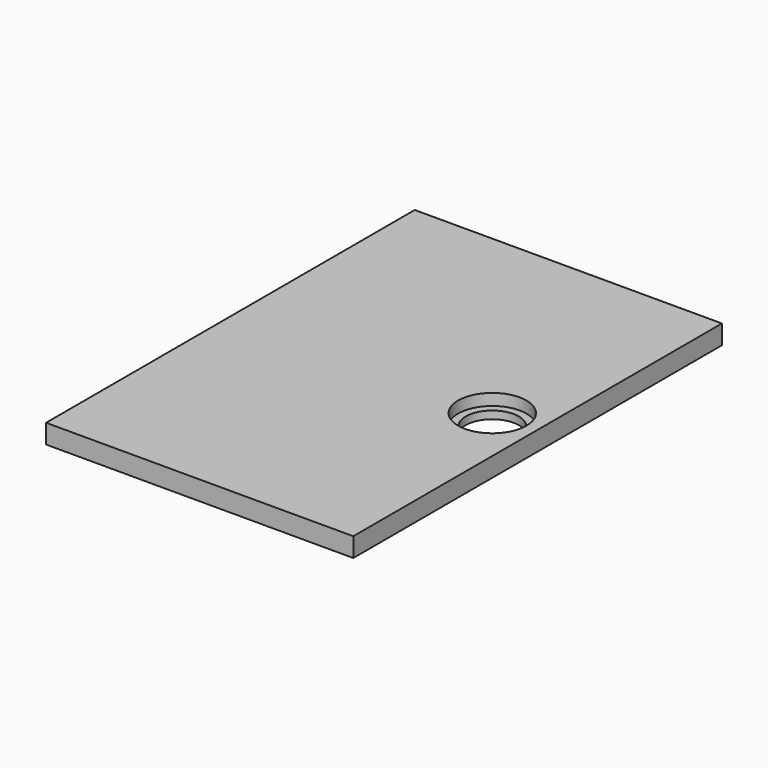
from build123d import *

# Parameters (mm, degrees)
F0_W           = 101.6
F0_H           = 152.4
F1_DEPTH       = 6.35
F3_D           = 17.526
F3_CBORE_D     = 22.606
F3_CBORE_DEPTH = 3.81


with BuildPart() as f1:
    # F0 (on Top) → F1 (new body)
    with BuildSketch(Plane.XY):
        Rectangle(F0_W, F0_H)
    extrude(amount=F1_DEPTH)

    # F3 (through all)
    with Locations(Plane.XY.offset(6.35)):
        with Locations((35.814, 0)):
            CounterBoreHole(F3_D / 2, F3_CBORE_D / 2, F3_CBORE_DEPTH)


solid = f1.part
